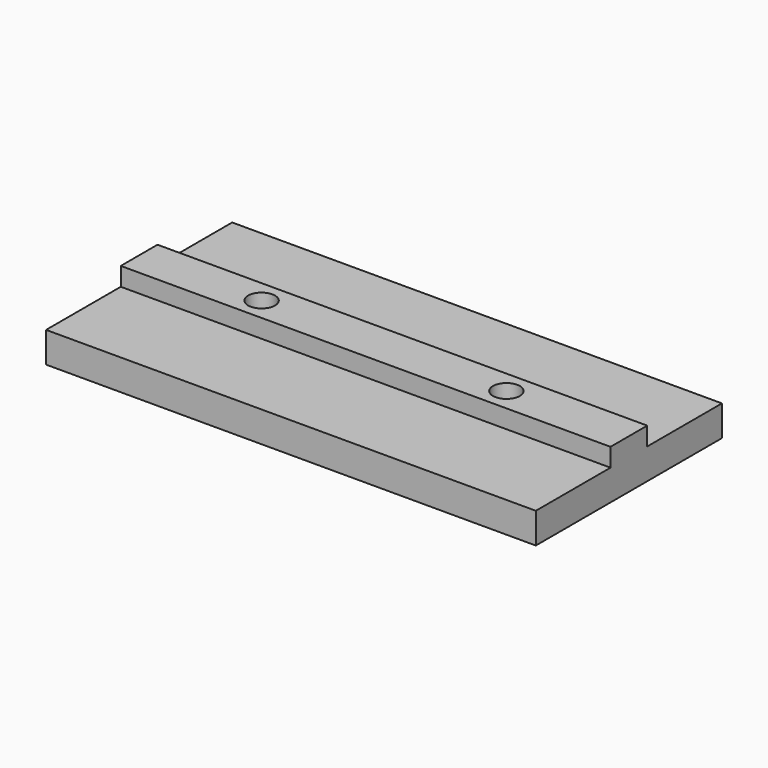
from build123d import *

# Parameters (mm, degrees)
F0_W     = 80
F0_H     = 15.25
F0_H_2   = 7.5
F1_DEPTH = 5
F2_DEPTH = 3
F4_D     = 4.4
F4_DEPTH = 3.001


with BuildPart() as f1:
    # F0 (on Top) → F1 (new body)
    with BuildSketch(Plane.XY):
        with Locations((0, 11.375)):
            Rectangle(F0_W, F0_H)
        with Locations((0, -11.375)):
            Rectangle(F0_W, F0_H)
        Rectangle(F0_W, F0_H_2)
    extrude(amount=-F1_DEPTH)

    # F0 (on Top) → F2 (join)
    with BuildSketch(Plane.XY):
        Rectangle(F0_W, F0_H_2)
    extrude(amount=F2_DEPTH)

    # F4 (through all, one way)
    with BuildSketch(Plane(origin=(0, 0, 0), x_dir=(1, 0, 0), z_dir=(0, 0, -1))):
        with Locations((-20, 0), (20, 0)):
            Circle(F4_D / 2)
    extrude(amount=-F4_DEPTH, mode=Mode.SUBTRACT)


solid = f1.part
